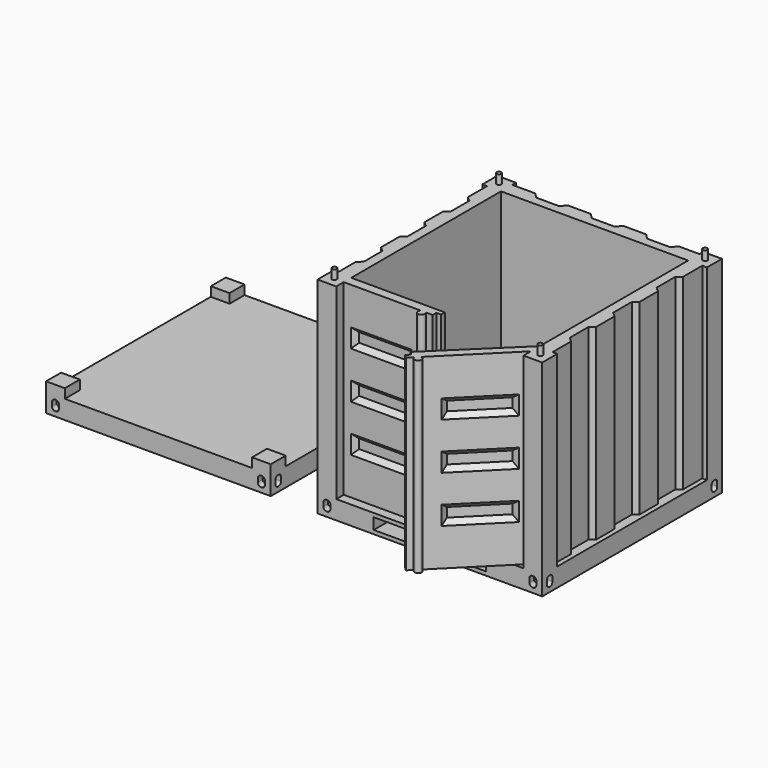
from build123d import *

# Parameters (mm, degrees)
F0_W      = 48
F0_H      = 48
F1_DEPTH  = 4
F3_DEPTH  = 48
F5_DEPTH  = 40
F7_DEPTH  = 1
F7_TAPER  = 45
F8_W      = 13
F8_H      = 4
F9_DEPTH  = 1
F9_TAPER  = 45
F10_R     = 0.5
F11_DEPTH = 2
F13_DEPTH = 3
F15_DEPTH = 3
F17_DEPTH = 3
F19_DEPTH = 3
F20_W     = 48
F20_H     = 48
F21_DEPTH = 4
F22_W     = 4
F22_H     = 4
F23_DEPTH = 2
F25_DEPTH = 3
F27_DEPTH = 3
F29_DEPTH = 3
F31_DEPTH = 3
F32_R     = 0.75
F33_DEPTH = 2.5


with BuildPart() as f1:
    # F0 (on Top) → F1 (new body)
    with BuildSketch(Plane.XY):
        with Locations((24, 24)):
            Rectangle(F0_W, F0_H)
    extrude(amount=F1_DEPTH)

    # F2 (on face) → F3 (cut)
    with BuildSketch(Plane.XZ):
        Polygon((29, 3.2), (29, 2), (29, 0.8), (36, 0.8), (36, 3.2), align=None)
        Polygon((19, 2), (19, 3.2), (12, 3.2), (12, 0.8), (19, 0.8), align=None)
    extrude(amount=-F3_DEPTH, mode=Mode.SUBTRACT)

    # F4 (on face) → F5 (join)
    with BuildSketch(Plane.XY.offset(4)):
        with BuildLine():
            Line((4, 48), (0, 48))
            Line((0, 48), (0, 44))
            Line((0, 44), (1, 44))
            Line((1, 44), (1, 38.8781992624))
            Line((1, 38.8781992624), (2, 38.0390996312))
            Line((2, 38.0390996312), (2, 33.0390996312))
            Line((2, 33.0390996312), (1, 32.2))
            Line((1, 32.2), (1, 27.2781992624))
            Line((1, 27.2781992624), (2, 26.4390996312))
            Line((2, 26.4390996312), (2, 21.4390996312))
            Line((2, 21.4390996312), (1, 20.6))
            Line((1, 20.6), (1, 15.6781992624))
            Line((1, 15.6781992624), (2, 14.8390996312))
            Line((2, 14.8390996312), (2, 9.8390996312))
            Line((2, 9.8390996312), (1, 9))
            Line((1, 9), (1, 4))
            Line((1, 4), (0, 4))
            Line((0, 4), (0, 0))
            Line((0, 0), (4, 0))
            Line((4, 0), (4, 2))
            Line((4, 2), (20.4409830056, 2))
            ThreePointArc((20.4409830056, 2), (21, 0.75), (21.5590169944, 2))
            Line((21.5590169944, 2), (23, 2))
            Line((23, 2), (23, 3))
            Line((23, 3), (24, 3))
            Line((24, 3), (24, 4))
            Line((24, 4), (4, 4))
            Line((4, 4), (4, 44))
            Line((4, 44), (44, 44))
            Line((44, 44), (44, 4.3704584443))
            Line((44, 4.3704584443), (28.4436508139, -10.7279220614))
            Line((28.4436508139, -10.7279220614), (29.1507575951, -11.4350288425))
            Line((29.1507575951, -11.4350288425), (28.4436508139, -12.1421356237))
            Line((28.4436508139, -12.1421356237), (29.1507575951, -12.8492424049))
            Line((29.1507575951, -12.8492424049), (30.1696864499, -11.8303135501))
            ThreePointArc((30.1696864499, -11.8303135501), (31.4488546339, -12.318912319), (30.960255865, -11.039744135))
            Line((30.960255865, -11.039744135), (44, 2))
            Line((44, 2), (44, 0))
            Line((44, 0), (48, 0))
            Line((48, 0), (48, 4))
            Line((48, 4), (47, 4))
            Line((47, 4), (47, 9))
            Line((47, 9), (46, 9.8390996312))
            Line((46, 9.8390996312), (46, 14.8390996312))
            Line((46, 14.8390996312), (47, 15.6781992624))
            Line((47, 15.6781992624), (47, 20.6))
            Line((47, 20.6), (46, 21.4390996312))
            Line((46, 21.4390996312), (46, 26.4390996312))
            Line((46, 26.4390996312), (47, 27.2781992624))
            Line((47, 27.2781992624), (47, 32.2))
            Line((47, 32.2), (46, 33.0390996312))
            Line((46, 33.0390996312), (46, 38.0390996312))
            Line((46, 38.0390996312), (47, 38.8781992624))
            Line((47, 38.8781992624), (47, 44))
            Line((47, 44), (48, 44))
            Line((48, 44), (48, 48))
            Line((48, 48), (44, 48))
            Line((44, 48), (44, 47))
            Line((44, 47), (39.5723268082, 47))
            Line((39.5723268082, 47), (38.6436056735, 45.8931932512))
            Line((38.6436056735, 45.8931932512), (33.6436056735, 45.8931932512))
            Line((33.6436056735, 45.8931932512), (32.7148845388, 47))
            Line((32.7148845388, 47), (27.7148845388, 47))
            Line((27.7148845388, 47), (26.7861634041, 45.8931932512))
            Line((26.7861634041, 45.8931932512), (21.7861634041, 45.8931932512))
            Line((21.7861634041, 45.8931932512), (20.8574422694, 47))
            Line((20.8574422694, 47), (15.8574422694, 47))
            Line((15.8574422694, 47), (14.9287211347, 45.8931932512))
            Line((14.9287211347, 45.8931932512), (9.9287211347, 45.8931932512))
            Line((9.9287211347, 45.8931932512), (9, 47))
            Line((9, 47), (4, 47))
            Line((4, 47), (4, 48))
        make_face()
    extrude(amount=F5_DEPTH)

    # F6 (on face) → F7 (cut)
    with BuildSketch(Plane.XZ.offset(-2)):
        Polygon((5.5, 26), (5.5, 24), (5.5, 22), (18.5, 22), (18.5, 26), align=None)
        Polygon((5.5, 14), (5.5, 12), (18.5, 12), (18.5, 16), (5.5, 16), align=None)
        Polygon((5.5, 34), (5.5, 32), (18.5, 32), (18.5, 36), (5.5, 36), align=None)
    extrude(amount=-F7_DEPTH, taper=F7_TAPER, mode=Mode.SUBTRACT)

    # F8 (on face) → F9 (cut)
    with BuildSketch(Plane(origin=(21, -21, 0), x_dir=(0.7071067812, 0.7071067812, 0), z_dir=(0.7071067812, -0.7071067812, 0))):
        Polygon((30.5269119346, 22), (30.5269119346, 24), (30.5269119346, 26), (17.5269119346, 26), (17.5269119346, 22), align=None)
        Polygon((17.5269119346, 36), (17.5269119346, 32), (30.5269119346, 32), (30.5269119346, 34), (30.5269119346, 36), align=None)
        with Locations((24.0269119346, 14)):
            Rectangle(F8_W, F8_H)
    extrude(amount=-F9_DEPTH, taper=F9_TAPER, mode=Mode.SUBTRACT)

    # F10 (on face) → F11 (join)
    with BuildSketch(Plane.XY.offset(44)):
        with Locations((2, 46)):
            Circle(F10_R)
        with Locations((46, 46)):
            Circle(F10_R)
        with Locations((46, 2)):
            Circle(F10_R)
        with Locations((2, 2)):
            Circle(F10_R)
    extrude(amount=F11_DEPTH)

    # F12 (on face) → F13 (cut)
    with BuildSketch(Plane.YZ.offset(48)):
        with BuildLine():
            Line((45.95, 1), (46, 1))
            Line((46, 1), (46.05, 1))
            ThreePointArc((46.05, 1), (46.5449747468, 1.2050252532), (46.75, 1.7))
            Line((46.75, 1.7), (46.75, 2.5))
            ThreePointArc((46.75, 2.5), (46.5449747468, 2.9949747468), (46.05, 3.2))
            Line((46.05, 3.2), (45.95, 3.2))
            ThreePointArc((45.95, 3.2), (45.4550252532, 2.9949747468), (45.25, 2.5))
            Line((45.25, 2.5), (45.25, 1.7))
            ThreePointArc((45.25, 1.7), (45.4550252532, 1.2050252532), (45.95, 1))
        make_face()
        with BuildLine():
            ThreePointArc((2.75, 2.5), (2.5449747468, 2.9949747468), (2.05, 3.2))
            Line((2.05, 3.2), (1.95, 3.2))
            ThreePointArc((1.95, 3.2), (1.4550252532, 2.9949747468), (1.25, 2.5))
            Line((1.25, 2.5), (1.25, 1.7))
            ThreePointArc((1.25, 1.7), (1.4550252532, 1.2050252532), (1.95, 1))
            Line((1.95, 1), (2, 1))
            Line((2, 1), (2.05, 1))
            ThreePointArc((2.05, 1), (2.5449747468, 1.2050252532), (2.75, 1.7))
            Line((2.75, 1.7), (2.75, 2.5))
        make_face()
    extrude(amount=-F13_DEPTH, mode=Mode.SUBTRACT)

    # F14 (on face) → F15 (cut)
    with BuildSketch(Plane(origin=(0, 48, 0), x_dir=(-1, 0, 0), z_dir=(0, 1, 0))):
        with BuildLine():
            Line((-46.05, 1), (-46, 1))
            Line((-46, 1), (-45.95, 1))
            ThreePointArc((-45.95, 1), (-45.4550252532, 1.2050252532), (-45.25, 1.7))
            Line((-45.25, 1.7), (-45.25, 2.5))
            ThreePointArc((-45.25, 2.5), (-45.4550252532, 2.9949747468), (-45.95, 3.2))
            Line((-45.95, 3.2), (-46.05, 3.2))
            ThreePointArc((-46.05, 3.2), (-46.5449747468, 2.9949747468), (-46.75, 2.5))
            Line((-46.75, 2.5), (-46.75, 1.7))
            ThreePointArc((-46.75, 1.7), (-46.5449747468, 1.2050252532), (-46.05, 1))
        make_face()
        with BuildLine():
            Line((-1.95, 3.2), (-2.05, 3.2))
            ThreePointArc((-2.05, 3.2), (-2.5449747468, 2.9949747468), (-2.75, 2.5))
            Line((-2.75, 2.5), (-2.75, 1.7))
            ThreePointArc((-2.75, 1.7), (-2.5449747468, 1.2050252532), (-2.05, 1))
            Line((-2.05, 1), (-2, 1))
            Line((-2, 1), (-1.95, 1))
            ThreePointArc((-1.95, 1), (-1.4550252532, 1.2050252532), (-1.25, 1.7))
            Line((-1.25, 1.7), (-1.25, 2.5))
            ThreePointArc((-1.25, 2.5), (-1.4550252532, 2.9949747468), (-1.95, 3.2))
        make_face()
    extrude(amount=-F15_DEPTH, mode=Mode.SUBTRACT)

    # F16 (on face) → F17 (cut)
    with BuildSketch(Plane(origin=(0, 0, 0), x_dir=(0, -1, 0), z_dir=(-1, 0, 0))):
        with BuildLine():
            Line((-46.05, 1), (-46, 1))
            Line((-46, 1), (-45.95, 1))
            ThreePointArc((-45.95, 1), (-45.4550252532, 1.2050252532), (-45.25, 1.7))
            Line((-45.25, 1.7), (-45.25, 2.5))
            ThreePointArc((-45.25, 2.5), (-45.4550252532, 2.9949747468), (-45.95, 3.2))
            Line((-45.95, 3.2), (-46.05, 3.2))
            ThreePointArc((-46.05, 3.2), (-46.5449747468, 2.9949747468), (-46.75, 2.5))
            Line((-46.75, 2.5), (-46.75, 1.7))
            ThreePointArc((-46.75, 1.7), (-46.5449747468, 1.2050252532), (-46.05, 1))
        make_face()
        with BuildLine():
            ThreePointArc((-1.25, 2.5), (-1.4550252532, 2.9949747468), (-1.95, 3.2))
            Line((-1.95, 3.2), (-2.05, 3.2))
            ThreePointArc((-2.05, 3.2), (-2.5449747468, 2.9949747468), (-2.75, 2.5))
            Line((-2.75, 2.5), (-2.75, 1.7))
            ThreePointArc((-2.75, 1.7), (-2.5449747468, 1.2050252532), (-2.05, 1))
            Line((-2.05, 1), (-2, 1))
            Line((-2, 1), (-1.95, 1))
            ThreePointArc((-1.95, 1), (-1.4550252532, 1.2050252532), (-1.25, 1.7))
            Line((-1.25, 1.7), (-1.25, 2.5))
        make_face()
    extrude(amount=-F17_DEPTH, mode=Mode.SUBTRACT)

    # F18 (on face) → F19 (cut)
    with BuildSketch(Plane.XZ):
        with BuildLine():
            Line((1.95, 1), (2, 1))
            Line((2, 1), (2.05, 1))
            ThreePointArc((2.05, 1), (2.5449747468, 1.2050252532), (2.75, 1.7))
            Line((2.75, 1.7), (2.75, 2.5))
            ThreePointArc((2.75, 2.5), (2.5449747468, 2.9949747468), (2.05, 3.2))
            Line((2.05, 3.2), (1.95, 3.2))
            ThreePointArc((1.95, 3.2), (1.4550252532, 2.9949747468), (1.25, 2.5))
            Line((1.25, 2.5), (1.25, 1.7))
            ThreePointArc((1.25, 1.7), (1.4550252532, 1.2050252532), (1.95, 1))
        make_face()
        with BuildLine():
            ThreePointArc((46.75, 2.5), (46.5449747468, 2.9949747468), (46.05, 3.2))
            Line((46.05, 3.2), (45.95, 3.2))
            ThreePointArc((45.95, 3.2), (45.4550252532, 2.9949747468), (45.25, 2.5))
            Line((45.25, 2.5), (45.25, 1.7))
            ThreePointArc((45.25, 1.7), (45.4550252532, 1.2050252532), (45.95, 1))
            Line((45.95, 1), (46, 1))
            Line((46, 1), (46.05, 1))
            ThreePointArc((46.05, 1), (46.5449747468, 1.2050252532), (46.75, 1.7))
            Line((46.75, 1.7), (46.75, 2.5))
        make_face()
    extrude(amount=-F19_DEPTH, mode=Mode.SUBTRACT)


with BuildPart() as f21:
    # F20 (on Top) → F21 (new body)
    with BuildSketch(Plane.XY):
        with Locations((-34, 24)):
            Rectangle(F20_W, F20_H)
    extrude(amount=F21_DEPTH)

    # F22 (on face) → F23 (join)
    with BuildSketch(Plane.XY.offset(4)):
        with Locations((-56, 46)):
            Rectangle(F22_W, F22_H)
        with Locations((-12, 46)):
            Rectangle(F22_W, F22_H)
        with Locations((-12, 2)):
            Rectangle(F22_W, F22_H)
        with Locations((-56, 2)):
            Rectangle(F22_W, F22_H)
    extrude(amount=F23_DEPTH)

    # F24 (on face) → F25 (cut)
    with BuildSketch(Plane.XZ):
        with BuildLine():
            Line((-56.05, 1), (-56, 1))
            Line((-56, 1), (-55.95, 1))
            ThreePointArc((-55.95, 1), (-55.4550252532, 1.2050252532), (-55.25, 1.7))
            Line((-55.25, 1.7), (-55.25, 2.5))
            ThreePointArc((-55.25, 2.5), (-55.4550252532, 2.9949747468), (-55.95, 3.2))
            Line((-55.95, 3.2), (-56.05, 3.2))
            ThreePointArc((-56.05, 3.2), (-56.5449747468, 2.9949747468), (-56.75, 2.5))
            Line((-56.75, 2.5), (-56.75, 1.7))
            ThreePointArc((-56.75, 1.7), (-56.5449747468, 1.2050252532), (-56.05, 1))
        make_face()
        with BuildLine():
            ThreePointArc((-11.25, 2.5), (-11.4550252532, 2.9949747468), (-11.95, 3.2))
            Line((-11.95, 3.2), (-12.05, 3.2))
            ThreePointArc((-12.05, 3.2), (-12.5449747468, 2.9949747468), (-12.75, 2.5))
            Line((-12.75, 2.5), (-12.75, 1.7))
            ThreePointArc((-12.75, 1.7), (-12.5449747468, 1.2050252532), (-12.05, 1))
            Line((-12.05, 1), (-12, 1))
            Line((-12, 1), (-11.95, 1))
            ThreePointArc((-11.95, 1), (-11.4550252532, 1.2050252532), (-11.25, 1.7))
            Line((-11.25, 1.7), (-11.25, 2.5))
        make_face()
    extrude(amount=-F25_DEPTH, mode=Mode.SUBTRACT)

    # F26 (on face) → F27 (cut)
    with BuildSketch(Plane(origin=(-58, 0, 0), x_dir=(0, -1, 0), z_dir=(-1, 0, 0))):
        with BuildLine():
            Line((-2.05, 1), (-2, 1))
            Line((-2, 1), (-1.95, 1))
            ThreePointArc((-1.95, 1), (-1.4550252532, 1.2050252532), (-1.25, 1.7))
            Line((-1.25, 1.7), (-1.25, 2.5))
            ThreePointArc((-1.25, 2.5), (-1.4550252532, 2.9949747468), (-1.95, 3.2))
            Line((-1.95, 3.2), (-2.05, 3.2))
            ThreePointArc((-2.05, 3.2), (-2.5449747468, 2.9949747468), (-2.75, 2.5))
            Line((-2.75, 2.5), (-2.75, 1.7))
            ThreePointArc((-2.75, 1.7), (-2.5449747468, 1.2050252532), (-2.05, 1))
        make_face()
        with BuildLine():
            ThreePointArc((-45.25, 2.5), (-45.4550252532, 2.9949747468), (-45.95, 3.2))
            Line((-45.95, 3.2), (-46.05, 3.2))
            ThreePointArc((-46.05, 3.2), (-46.5449747468, 2.9949747468), (-46.75, 2.5))
            Line((-46.75, 2.5), (-46.75, 1.7))
            ThreePointArc((-46.75, 1.7), (-46.5449747468, 1.2050252532), (-46.05, 1))
            Line((-46.05, 1), (-46, 1))
            Line((-46, 1), (-45.95, 1))
            ThreePointArc((-45.95, 1), (-45.4550252532, 1.2050252532), (-45.25, 1.7))
            Line((-45.25, 1.7), (-45.25, 2.5))
        make_face()
    extrude(amount=-F27_DEPTH, mode=Mode.SUBTRACT)

    # F28 (on face) → F29 (cut)
    with BuildSketch(Plane(origin=(0, 48, 0), x_dir=(-1, 0, 0), z_dir=(0, 1, 0))):
        with BuildLine():
            Line((55.95, 1), (56, 1))
            Line((56, 1), (56.05, 1))
            ThreePointArc((56.05, 1), (56.5449747468, 1.2050252532), (56.75, 1.7))
            Line((56.75, 1.7), (56.75, 2.5))
            ThreePointArc((56.75, 2.5), (56.5449747468, 2.9949747468), (56.05, 3.2))
            Line((56.05, 3.2), (55.95, 3.2))
            ThreePointArc((55.95, 3.2), (55.4550252532, 2.9949747468), (55.25, 2.5))
            Line((55.25, 2.5), (55.25, 1.7))
            ThreePointArc((55.25, 1.7), (55.4550252532, 1.2050252532), (55.95, 1))
        make_face()
        with BuildLine():
            Line((12.05, 3.2), (11.95, 3.2))
            ThreePointArc((11.95, 3.2), (11.4550252532, 2.9949747468), (11.25, 2.5))
            Line((11.25, 2.5), (11.25, 1.7))
            ThreePointArc((11.25, 1.7), (11.4550252532, 1.2050252532), (11.95, 1))
            Line((11.95, 1), (12, 1))
            Line((12, 1), (12.05, 1))
            ThreePointArc((12.05, 1), (12.5449747468, 1.2050252532), (12.75, 1.7))
            Line((12.75, 1.7), (12.75, 2.5))
            ThreePointArc((12.75, 2.5), (12.5449747468, 2.9949747468), (12.05, 3.2))
        make_face()
    extrude(amount=-F29_DEPTH, mode=Mode.SUBTRACT)

    # F30 (on face) → F31 (cut)
    with BuildSketch(Plane.YZ.offset(-10)):
        with BuildLine():
            Line((45.95, 1), (46, 1))
            Line((46, 1), (46.05, 1))
            ThreePointArc((46.05, 1), (46.5449747468, 1.2050252532), (46.75, 1.7))
            Line((46.75, 1.7), (46.75, 2.5))
            ThreePointArc((46.75, 2.5), (46.5449747468, 2.9949747468), (46.05, 3.2))
            Line((46.05, 3.2), (45.95, 3.2))
            ThreePointArc((45.95, 3.2), (45.4550252532, 2.9949747468), (45.25, 2.5))
            Line((45.25, 2.5), (45.25, 1.7))
            ThreePointArc((45.25, 1.7), (45.4550252532, 1.2050252532), (45.95, 1))
        make_face()
        with BuildLine():
            ThreePointArc((2.75, 2.5), (2.5449747468, 2.9949747468), (2.05, 3.2))
            Line((2.05, 3.2), (1.95, 3.2))
            ThreePointArc((1.95, 3.2), (1.4550252532, 2.9949747468), (1.25, 2.5))
            Line((1.25, 2.5), (1.25, 1.7))
            ThreePointArc((1.25, 1.7), (1.4550252532, 1.2050252532), (1.95, 1))
            Line((1.95, 1), (2, 1))
            Line((2, 1), (2.05, 1))
            ThreePointArc((2.05, 1), (2.5449747468, 1.2050252532), (2.75, 1.7))
            Line((2.75, 1.7), (2.75, 2.5))
        make_face()
    extrude(amount=-F31_DEPTH, mode=Mode.SUBTRACT)

    # F32 (on face) → F33 (cut)
    with BuildSketch(Plane(origin=(0, 0, 0), x_dir=(1, 0, 0), z_dir=(0, 0, -1))):
        with Locations((-56, -2)):
            Circle(F32_R)
        with Locations((-12, -2)):
            Circle(F32_R)
        with Locations((-56, -46)):
            Circle(F32_R)
        with Locations((-12, -46)):
            Circle(F32_R)
    extrude(amount=-F33_DEPTH, mode=Mode.SUBTRACT)


solid = Compound([f1.part, f21.part])
